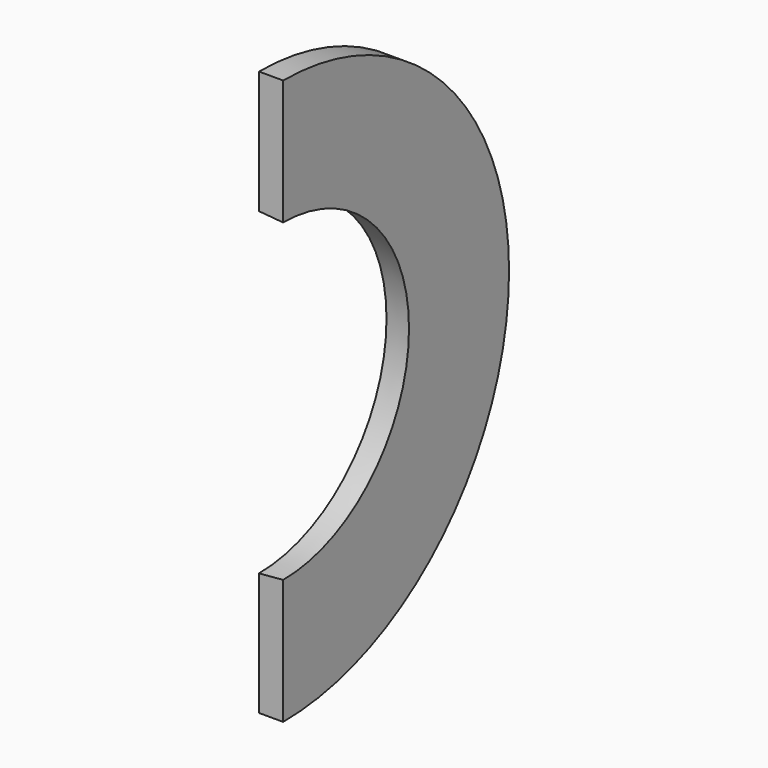
from build123d import *

# Parameters (mm, degrees)
F1_ANGLE = 180


with BuildPart() as f1:
    # F0 (on Front) → F1 (revolve)
    with BuildSketch(Plane.XZ):
        Polygon((-6, 39.524932), (0, 39), (0, 70), (-6, 70), align=None)
    revolve(axis=Axis((-23.459781, 0, 0), (-1, 0, 0)), revolution_arc=F1_ANGLE)


solid = f1.part
